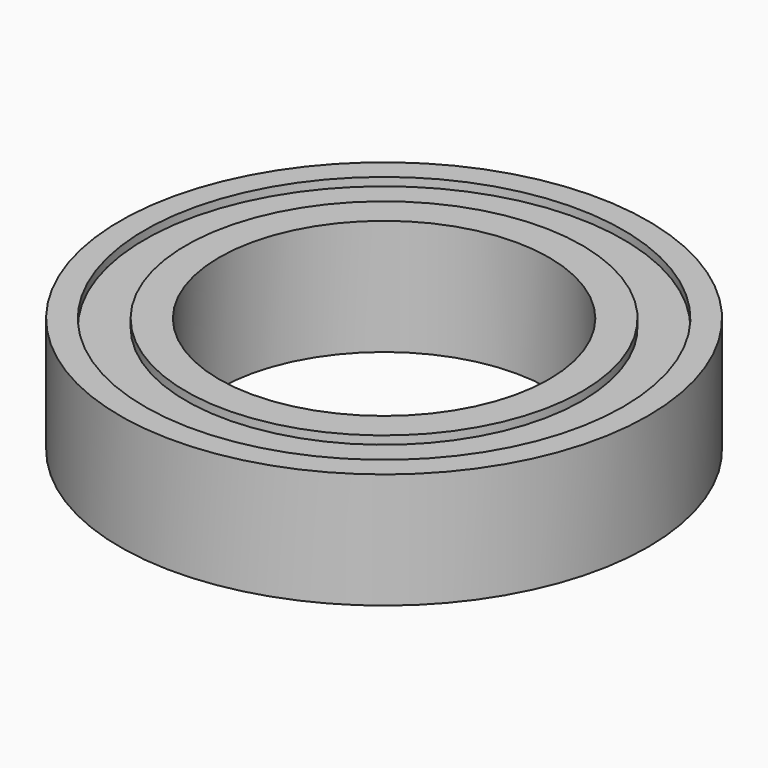
from build123d import *

# Parameters (mm, degrees)
SKETCH_R      = 16
SKETCH_R_2    = 14.5
PAD_DEPTH     = 3.5
SKETCH001_R   = 14.5
SKETCH001_R_2 = 12
PAD001_DEPTH  = 3
SKETCH002_R   = 12
SKETCH002_R_2 = 10
PAD002_DEPTH  = 3.5


with BuildPart() as part:
    # Sketch → Pad (new body, symmetric)
    with BuildSketch(Plane.XY):
        Circle(SKETCH_R)
        Circle(SKETCH_R_2, mode=Mode.SUBTRACT)
    extrude(amount=PAD_DEPTH, both=True)

    # Sketch001 → Pad001 (join, symmetric)
    with BuildSketch(Plane.XY):
        Circle(SKETCH001_R)
        Circle(SKETCH001_R_2, mode=Mode.SUBTRACT)
    extrude(amount=PAD001_DEPTH, both=True)

    # Sketch002 → Pad002 (join, symmetric)
    with BuildSketch(Plane.XY):
        Circle(SKETCH002_R)
        Circle(SKETCH002_R_2, mode=Mode.SUBTRACT)
    extrude(amount=PAD002_DEPTH, both=True)


solid = part.part
